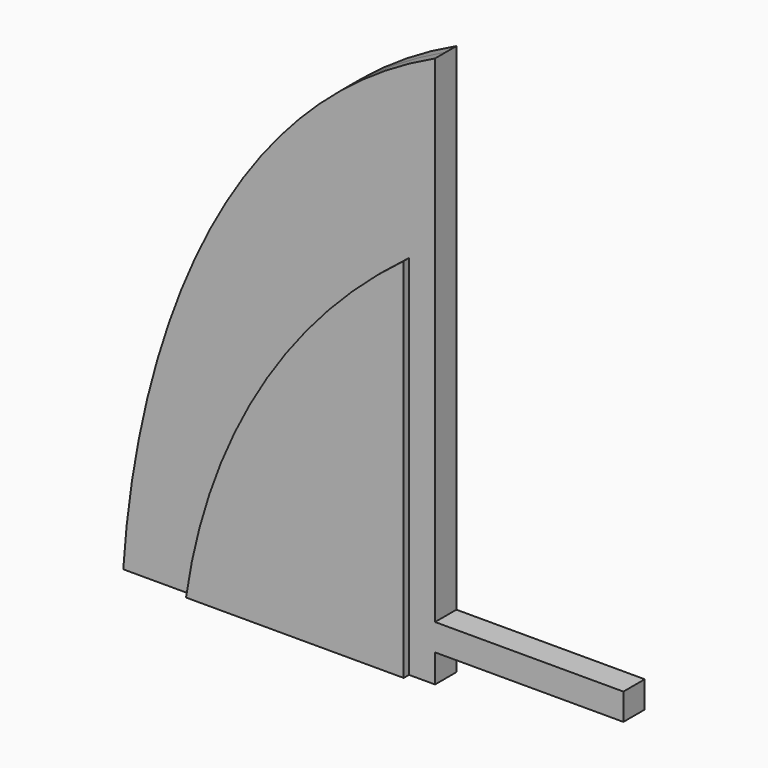
from build123d import *

# Parameters (mm, degrees)
F0_W     = 3.9206347639
F0_H     = 6.35
F0_W_2   = 38.6172633823
F0_W_3   = 6.145446312
F1_DEPTH = 3.175
F3_DEPTH = 1.5875
F5_DEPTH = 1.5875


with BuildPart() as f1:
    # F0 (on Front) → F1 (new body, symmetric)
    with BuildSketch(Plane.XZ):
        with BuildLine():
            add(Edge.make_bspline(
                [(-63.5830785449, -61.1632146377), (-60.6032821452, -14.1837314043), (-41.3495043683, 45.8758918628), (10.5261552874, 69.8420151656)],
                knots=[0, 0, 0, 0, 150.514280967, 150.514280967, 150.514280967, 150.514280967], degree=3))
            Line((-63.5830785449, -61.1632146377), (10.5261552874, -61.1632146377))
            Line((10.5261552874, -61.1632146377), (10.5261552874, -54.4388230847))
            Line((10.5261552874, -54.4388230847), (6.6055205235, -54.4388230847))
            Line((6.6055205235, -54.4388230847), (6.6055205235, -48.0888230847))
            Line((6.6055205235, -48.0888230847), (10.5261552874, -48.0888230847))
            Line((10.5261552874, -48.0888230847), (10.5261552874, 69.8420151656))
        make_face()
        with Locations((8.5658379055, -51.2638230847)):
            Rectangle(F0_W, F0_H)
        with Locations((29.8347869785, -51.2638230847)):
            Rectangle(F0_W_2, F0_H)
        with Locations((52.2161418257, -51.2638230847)):
            Rectangle(F0_W_3, F0_H)
    extrude(amount=F1_DEPTH, both=True)

    # F2 (on face) → F3 (join, symmetric)
    with BuildSketch(Plane(origin=(0, 3.175, 0), x_dir=(-1, 0, 0), z_dir=(0, 1, 0))):
        with BuildLine():
            Line((-4.1227932088, 26.3006426394), (-4.1227932088, -61.1632146377))
            Line((-4.1227932088, -61.1632146377), (47.1498034894, -61.1632146377))
            ThreePointArc((47.1498034894, -61.1632146377), (30.1089207689, -12.3925272169), (-4.1227932088, 26.3006426394))
        make_face()
    extrude(amount=F3_DEPTH, both=True)

    # F4 (on face) → F5 (join, symmetric)
    with BuildSketch(Plane.XZ.offset(3.175)):
        with BuildLine():
            Line((-47.3917610943, -61.1632146377), (4.3468987569, -61.1632146377))
            Line((4.3468987569, -61.1632146377), (4.3468987569, 26.0813757777))
            ThreePointArc((4.3468987569, 26.0813757777), (-30.2325786117, -12.3755406522), (-47.3917610943, -61.1632146377))
        make_face()
    extrude(amount=F5_DEPTH, both=True)


solid = f1.part
